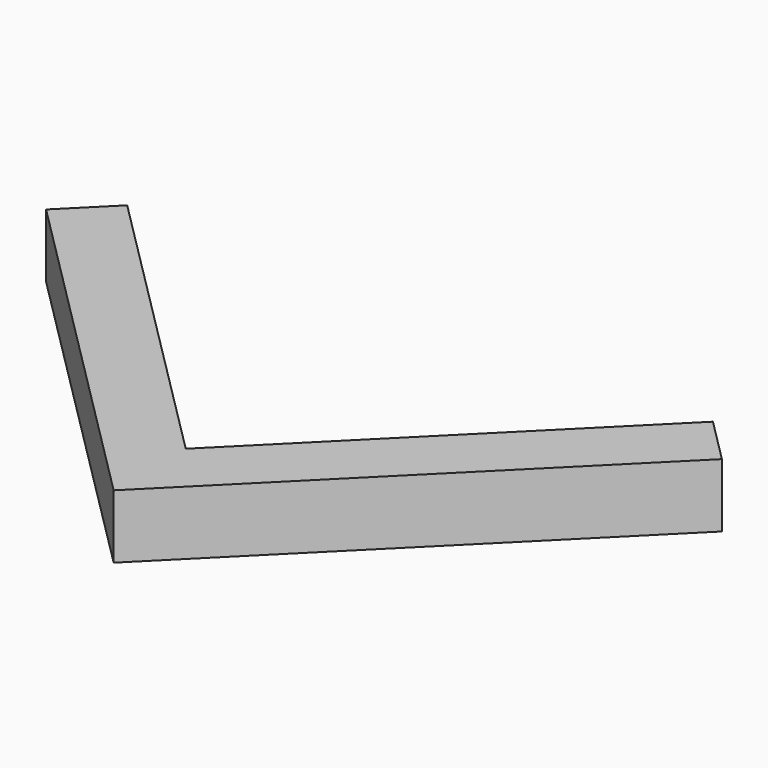
from build123d import *

# Parameters (mm, degrees)
BOX099_W                  = 7.5
BOX099_H                  = 1
BOX099_DEPTH              = 1
BOX097_W                  = 7.5
BOX097_H                  = 1
BOX097_DEPTH              = 1
FUSION023_PLACEMENT_ANGLE = 45


with BuildPart() as cube099:
    # Box099 → Box099 (new body)
    with BuildSketch(Plane.XY):
        with Locations((3.75, 0.5)):
            Rectangle(BOX099_W, BOX099_H)
    extrude(amount=BOX099_DEPTH)


with BuildPart() as obj1:
    # Box097 → Box097 (new body)
    with BuildSketch(Plane(origin=(1, 0, 0), x_dir=(0, 1, 0), z_dir=(0, 0, 1))):
        with Locations((3.75, 0.5)):
            Rectangle(BOX097_W, BOX097_H)
    extrude(amount=BOX097_DEPTH)

    # Fusion023: union Cube099
    add(cube099.part)


with BuildPart() as obj1_1:
    # Fusion023 placement: moved
    add(obj1.part.moved(Location((0, -15, 0))).rotate(Axis((0, -15, 0), (0, 0, 1)), FUSION023_PLACEMENT_ANGLE))


solid = obj1_1.part
